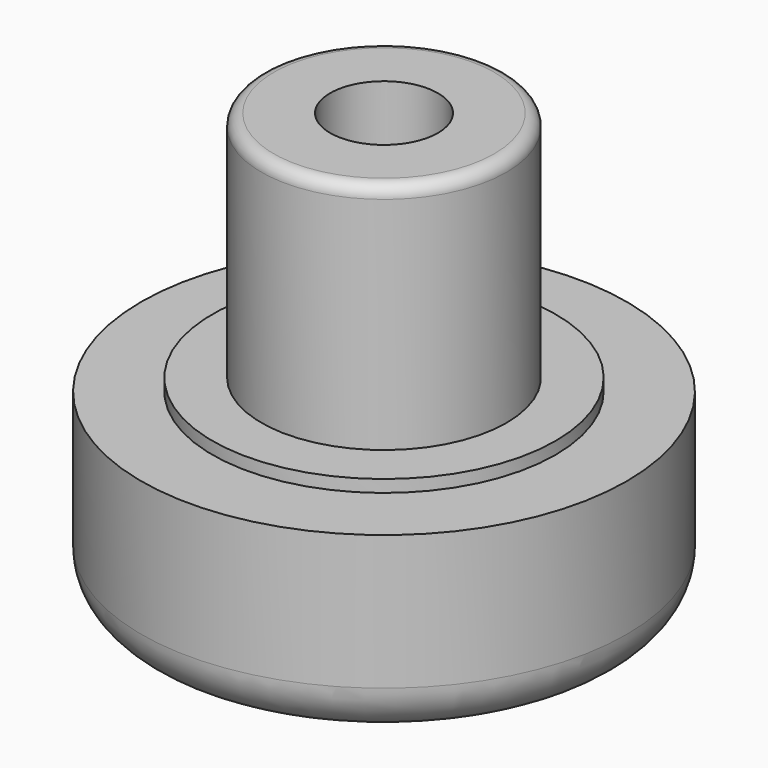
from build123d import *

# Parameters (mm, degrees)
F0_R     = 5
F0_R_2   = 3.6
F0_R_3   = 2.2
F1_DEPTH = 17.5
F0_R_4   = 9.906
F2_DEPTH = 7.5
F3_DEPTH = 5.25
F4_R     = 2
F5_R     = 0.5
F6_R     = 7
F6_R_2   = 5
F7_DEPTH = 0.5


with BuildPart() as f1:
    # F0 (on Top) → F1 (new body)
    with BuildSketch(Plane.XY):
        Circle(F0_R)
        Circle(F0_R_2, mode=Mode.SUBTRACT)
        Circle(F0_R_2)
        Circle(F0_R_3, mode=Mode.SUBTRACT)
    extrude(amount=F1_DEPTH)

    # F0 (on Top) → F2 (join)
    with BuildSketch(Plane.XY):
        Circle(F0_R_4)
        Circle(F0_R, mode=Mode.SUBTRACT)
    extrude(amount=F2_DEPTH)

    # F0 (on Top) → F3 (cut)
    with BuildSketch(Plane.XY):
        Circle(F0_R_2)
        Circle(F0_R_3, mode=Mode.SUBTRACT)
    extrude(amount=F3_DEPTH, mode=Mode.SUBTRACT)

    # F4
    f4_edges = [f1.edges().sort_by_distance(p)[0] for p in [
        (-9.906, 0, 0),
    ]]
    fillet(f4_edges, radius=F4_R)

    # F5
    f5_edges = [f1.edges().sort_by_distance(p)[0] for p in [
        (-5, 0, 17.5),
    ]]
    fillet(f5_edges, radius=F5_R)

    # F6 (on face) → F7 (join)
    with BuildSketch(Plane.XY.offset(7.5)):
        Circle(F6_R)
        Circle(F6_R_2, mode=Mode.SUBTRACT)
    extrude(amount=F7_DEPTH)


solid = f1.part
